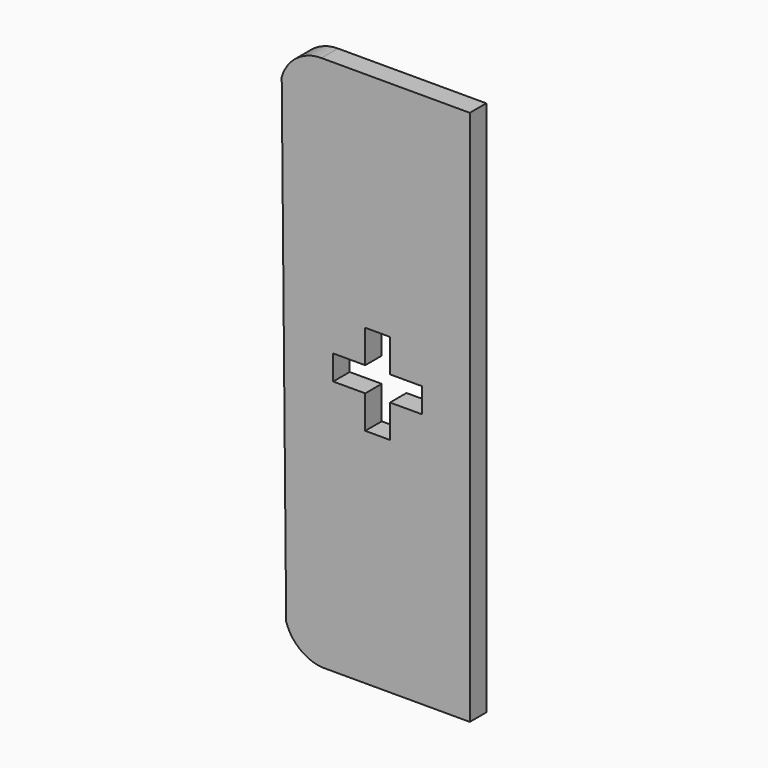
from build123d import *

# Parameters (mm, degrees)
F1_DEPTH = 5


with BuildPart() as f1:
    # F0 (on Front) → F1 (new body)
    with BuildSketch(Plane.XZ):
        with BuildLine():
            Line((8.335973, -94.735098), (8.335973, 35.264902))
            Line((8.335973, 35.264902), (-27.632447, 35.264902))
            ThreePointArc((-27.632447, 35.264902), (-33.632447, 33.279139), (-37.263132, 28.105998))
            Line((-37.263132, 28.105998), (-36.180024, -87.812574))
            ThreePointArc((-36.180024, -87.812574), (-32.936412, -92.545844), (-27.632447, -94.735098))
            Line((-27.632447, -94.735098), (8.335973, -94.735098))
        make_face()
        Polygon((-17.00996, -26.853288), (-17.00996, -18.853288), (-11.00996, -18.853288), (-11.00996, -26.853288), (-3.239573, -26.853288), (-3.239573, -32.853288), (-11.00996, -32.853288), (-11.00996, -40.853288), (-17.00996, -40.853288), (-17.00996, -32.853288), (-24.780346, -32.853288), (-24.780346, -26.853288), align=None, mode=Mode.SUBTRACT)
    extrude(amount=F1_DEPTH)


solid = f1.part
